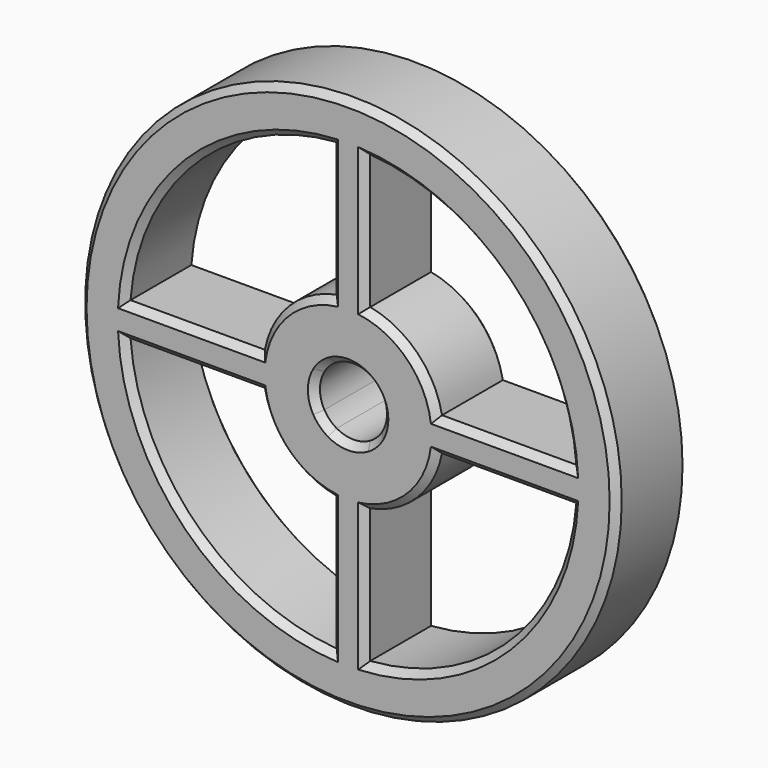
from build123d import *

# Parameters (mm, degrees)
F0_R     = 76.2
F1_DEPTH = 12.7
F2_SIZE  = 1.905
F3_SIZE  = 1.905


with BuildPart() as f1:
    # F0 (on Front) → F1 (new body, symmetric)
    with BuildSketch(Plane.XZ):
        Circle(F0_R)
        with BuildLine():
            ThreePointArc((-4.7625, -63.321154), (-44.901281, -44.901281), (-63.321154, -4.7625))
            Line((-63.321154, -4.7625), (-25.160792, -4.7625))
            Line((-25.160792, -4.7625), (-8.248892, -4.7625))
            ThreePointArc((-8.248892, -4.7625), (-9.525, 0), (-8.248892, 4.7625))
            Line((-8.248892, 4.7625), (-25.160792, 4.7625))
            Line((-25.160792, 4.7625), (-63.321154, 4.7625))
            ThreePointArc((-63.321154, 4.7625), (-44.901281, 44.901281), (-4.7625, 63.321154))
            Line((-4.7625, 63.321154), (-4.7625, 25.160792))
            Line((-4.7625, 25.160792), (-4.7625, 8.248892))
            ThreePointArc((-4.7625, 8.248892), (0, 9.525), (4.7625, 8.248892))
            Line((4.7625, 8.248892), (4.7625, 25.160792))
            Line((4.7625, 25.160792), (4.7625, 63.321154))
            ThreePointArc((4.7625, 63.321154), (44.901281, 44.901281), (63.321154, 4.7625))
            Line((63.321154, 4.7625), (25.160792, 4.7625))
            Line((25.160792, 4.7625), (8.248892, 4.7625))
            ThreePointArc((8.248892, 4.7625), (9.200443, 2.465251), (9.525, 0))
            ThreePointArc((9.525, 0), (9.200443, -2.465251), (8.248892, -4.7625))
            Line((8.248892, -4.7625), (25.160792, -4.7625))
            Line((25.160792, -4.7625), (63.321154, -4.7625))
            ThreePointArc((63.321154, -4.7625), (44.901281, -44.901281), (4.7625, -63.321154))
            Line((4.7625, -63.321154), (4.7625, -25.160792))
            Line((4.7625, -25.160792), (4.7625, -8.248892))
            ThreePointArc((4.7625, -8.248892), (0, -9.525), (-4.7625, -8.248892))
            Line((-4.7625, -8.248892), (-4.7625, -25.160792))
            Line((-4.7625, -25.160792), (-4.7625, -63.321154))
        make_face(mode=Mode.SUBTRACT)
        with BuildLine():
            Line((-25.160792, 4.7625), (-8.248892, 4.7625))
            ThreePointArc((-8.248892, 4.7625), (-6.735192, 6.735192), (-4.7625, 8.248892))
            Line((-4.7625, 8.248892), (-4.7625, 25.160792))
            ThreePointArc((-4.7625, 25.160792), (-18.107275, 18.107275), (-25.160792, 4.7625))
        make_face()
        with BuildLine():
            Line((4.7625, 25.160792), (4.7625, 8.248892))
            ThreePointArc((4.7625, 8.248892), (6.735192, 6.735192), (8.248892, 4.7625))
            Line((8.248892, 4.7625), (25.160792, 4.7625))
            ThreePointArc((25.160792, 4.7625), (18.107275, 18.107275), (4.7625, 25.160792))
        make_face()
        with BuildLine():
            ThreePointArc((8.248892, -4.7625), (6.735192, -6.735192), (4.7625, -8.248892))
            Line((4.7625, -8.248892), (4.7625, -25.160792))
            ThreePointArc((4.7625, -25.160792), (18.107275, -18.107275), (25.160792, -4.7625))
            Line((25.160792, -4.7625), (8.248892, -4.7625))
        make_face()
        with BuildLine():
            Line((-8.248892, -4.7625), (-25.160792, -4.7625))
            ThreePointArc((-25.160792, -4.7625), (-18.107275, -18.107275), (-4.7625, -25.160792))
            Line((-4.7625, -25.160792), (-4.7625, -8.248892))
            ThreePointArc((-4.7625, -8.248892), (-6.735192, -6.735192), (-8.248892, -4.7625))
        make_face()
    extrude(amount=F1_DEPTH, both=True)

    # F2
    f2_edges = [f1.edges().sort_by_distance(p)[0] for p in [
        (-76.2, -12.7, 0),
        (-4.7625, -12.7, -44.240973),
        (-44.901281, -12.7, -44.901281),
        (-44.240973, -12.7, -4.7625),
        (-18.107275, -12.7, -18.107275),
        (4.7625, -12.7, 8.248892),
        (44.240973, -12.7, -4.7625),
        (44.901281, -12.7, -44.901281),
        (4.7625, -12.7, -44.240973),
        (18.107275, -12.7, -18.107275),
        (4.7625, -12.7, 44.240973),
        (44.901281, -12.7, 44.901281),
        (44.240973, -12.7, 4.7625),
        (18.107275, -12.7, 18.107275),
        (-44.240973, -12.7, 4.7625),
        (-44.901281, -12.7, 44.901281),
        (-4.7625, -12.7, 44.240973),
        (-18.107275, -12.7, 18.107275),
    ]]
    chamfer(f2_edges, length=F2_SIZE)

    # F3
    f3_edges = [f1.edges().sort_by_distance(p)[0] for p in [
        (-76.2, 12.7, 0),
        (4.7625, 12.7, 8.248892),
        (-4.7625, 12.7, -44.240973),
        (-44.901281, 12.7, -44.901281),
        (-44.240973, 12.7, -4.7625),
        (-18.107275, 12.7, -18.107275),
        (44.240973, 12.7, -4.7625),
        (44.901281, 12.7, -44.901281),
        (4.7625, 12.7, -44.240973),
        (18.107275, 12.7, -18.107275),
        (4.7625, 12.7, 44.240973),
        (44.901281, 12.7, 44.901281),
        (44.240973, 12.7, 4.7625),
        (18.107275, 12.7, 18.107275),
        (-44.240973, 12.7, 4.7625),
        (-44.901281, 12.7, 44.901281),
        (-4.7625, 12.7, 44.240973),
        (-18.107275, 12.7, 18.107275),
    ]]
    chamfer(f3_edges, length=F3_SIZE)


solid = f1.part
